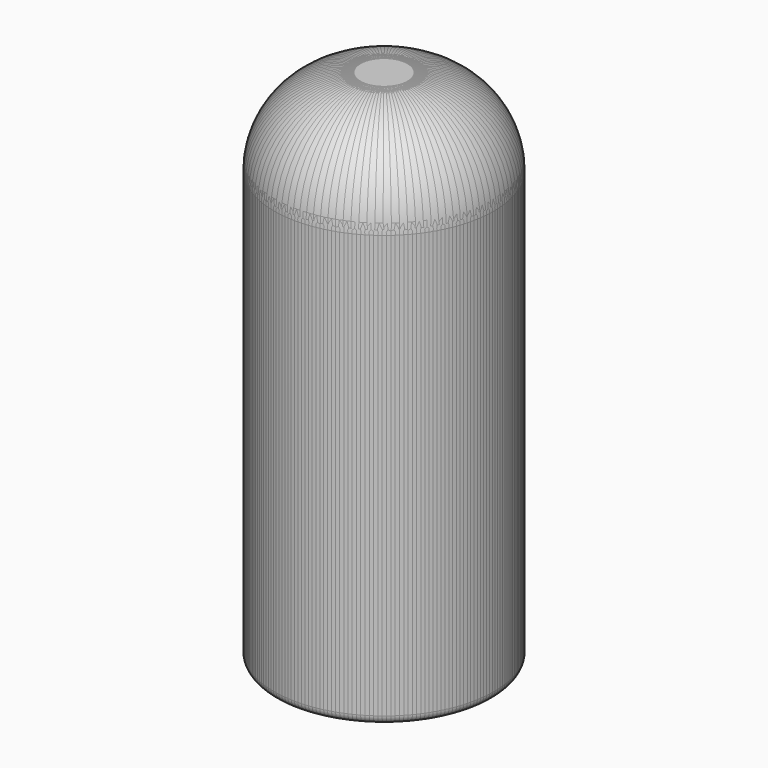
from build123d import *

# Parameters (mm, degrees)
F0_R     = 32.3114796586
F1_DEPTH = 152.4
F2_T     = -8.89
F3_R     = 25.4
F4_R     = 2.54
F5_R     = 2.54
F6_COUNT = 4


with BuildPart() as f1:
    # F0 (on Top) → F1 (new body)
    with BuildSketch(Plane.XY):
        Circle(F0_R)
    extrude(amount=F1_DEPTH)

    # F2
    f2_openings = [f1.faces().sort_by_distance(p)[0] for p in [
        (0, 0, 0),
    ]]
    offset(amount=F2_T, openings=f2_openings)

    # F3
    f3_edges = [f1.edges().sort_by_distance(p)[0] for p in [
        (-32.31148, 0, 152.4),
    ]]
    fillet(f3_edges, radius=F3_R)

    # F4
    f4_edges = [f1.edges().sort_by_distance(p)[0] for p in [
        (-32.31148, 0, 0),
    ]]
    fillet(f4_edges, radius=F4_R)

    # F5
    f5_edges = [f1.edges().sort_by_distance(p)[0] for p in [
        (-23.42148, 0, 0),
    ]]
    fillet(f5_edges, radius=F5_R)


with BuildPart() as f6_1:
    # F6: instance of F1
    add(f1.part.rotate(Axis((0, 0, 127), (0, 0, 1)), 1 * 360 / F6_COUNT))


with BuildPart() as f6_2:
    # F6: instance of F1
    add(f1.part.rotate(Axis((0, 0, 127), (0, 0, 1)), 2 * 360 / F6_COUNT))


with BuildPart() as f6_3:
    # F6: instance of F1
    add(f1.part.rotate(Axis((0, 0, 127), (0, 0, 1)), 3 * 360 / F6_COUNT))


solid = Compound([f1.part, f6_1.part, f6_2.part, f6_3.part])
